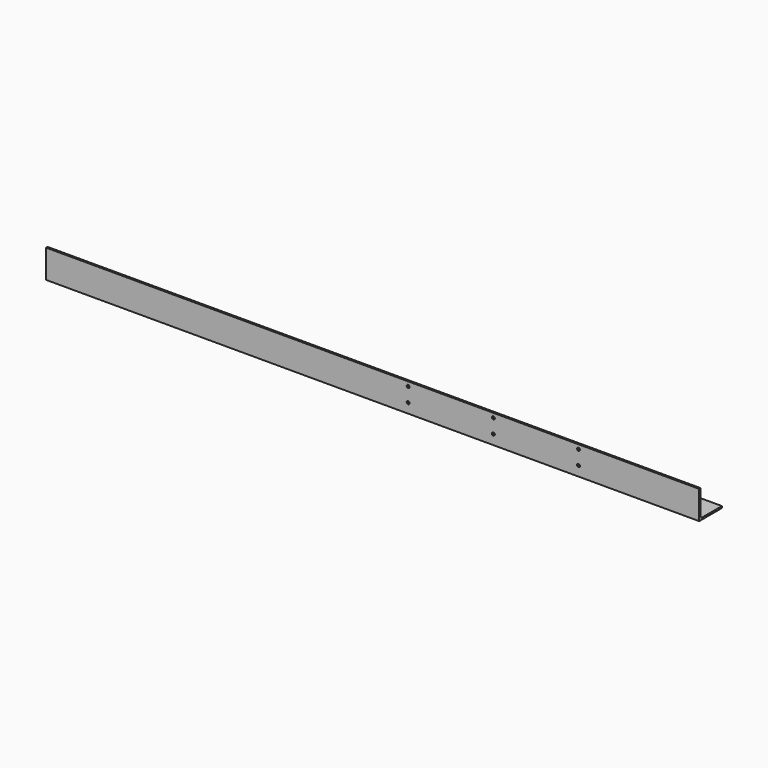
from build123d import *

# Parameters (mm, degrees)
F1_DEPTH = 1168.4
F2_R     = 2.6162
F3_DEPTH = 50.801
F4_R     = 2.6162
F5_DEPTH = 3.176
F6_R     = 2.6162
F7_DEPTH = 50.801


with BuildPart() as f1:
    # F0 (on Right) → F1 (new body)
    with BuildSketch(Plane.YZ):
        with BuildLine():
            Line((0, -44.45), (0, 0))
            Line((0, 0), (-3.175, 0))
            Line((-3.175, 0), (-3.175, -50.8))
            Line((-3.175, -50.8), (47.625, -50.8))
            Line((47.625, -50.8), (47.625, -47.625))
            Line((47.625, -47.625), (3.175, -47.625))
            ThreePointArc((3.175, -47.625), (0.929936, -46.695064), (0, -44.45))
        make_face()
    extrude(amount=-F1_DEPTH)

    # F2 (on face) → F3 (cut, through all)
    with BuildSketch(Plane(origin=(0, 0, -50.8), x_dir=(1, 0, 0), z_dir=(0, 0, -1))):
        with Locations((-1109.2, -6.8834)):
            Circle(F2_R)
        with Locations((-1109.2, -37.5666)):
            Circle(F2_R)
        with Locations((-959.2, -6.8834)):
            Circle(F2_R)
        with Locations((-959.2, -37.5666)):
            Circle(F2_R)
        with Locations((-809.2, -6.8834)):
            Circle(F2_R)
        with Locations((-809.2, -37.5666)):
            Circle(F2_R)
        with Locations((-659.2, -6.8834)):
            Circle(F2_R)
        with Locations((-659.2, -37.5666)):
            Circle(F2_R)
        with Locations((-509.2, -6.8834)):
            Circle(F2_R)
        with Locations((-509.2, -37.5666)):
            Circle(F2_R)
        with Locations((-359.2, -6.8834)):
            Circle(F2_R)
        with Locations((-359.2, -37.5666)):
            Circle(F2_R)
        with Locations((-209.2, -6.8834)):
            Circle(F2_R)
        with Locations((-209.2, -37.5666)):
            Circle(F2_R)
        with Locations((-59.2, -6.8834)):
            Circle(F2_R)
        with Locations((-59.2, -37.5666)):
            Circle(F2_R)
    extrude(amount=-F3_DEPTH, mode=Mode.SUBTRACT)

    # F4 (on face) → F5 (cut, through all)
    with BuildSketch(Plane.XY.offset(-47.625)):
        with Locations((-50.8, 22.225)):
            Circle(F4_R)
        with Locations((-1143, 22.225)):
            Circle(F4_R)
        with Locations((-1002.0681, 39.6875)):
            Circle(F4_R)
        with Locations((-191.7446, 39.6875)):
            Circle(F4_R)
    extrude(amount=-F5_DEPTH, mode=Mode.SUBTRACT)

    # F6 (on face) → F7 (cut, through all)
    with BuildSketch(Plane.XZ.offset(3.175)):
        with Locations((-368.3, -7.9375)):
            Circle(F6_R)
        with Locations((-215.9, -7.9375)):
            Circle(F6_R)
        with Locations((-520.7, -7.9375)):
            Circle(F6_R)
        with Locations((-520.7, -33.3375)):
            Circle(F6_R)
        with Locations((-368.3, -33.3375)):
            Circle(F6_R)
        with Locations((-215.9, -33.3375)):
            Circle(F6_R)
    extrude(amount=-F7_DEPTH, mode=Mode.SUBTRACT)


solid = f1.part
